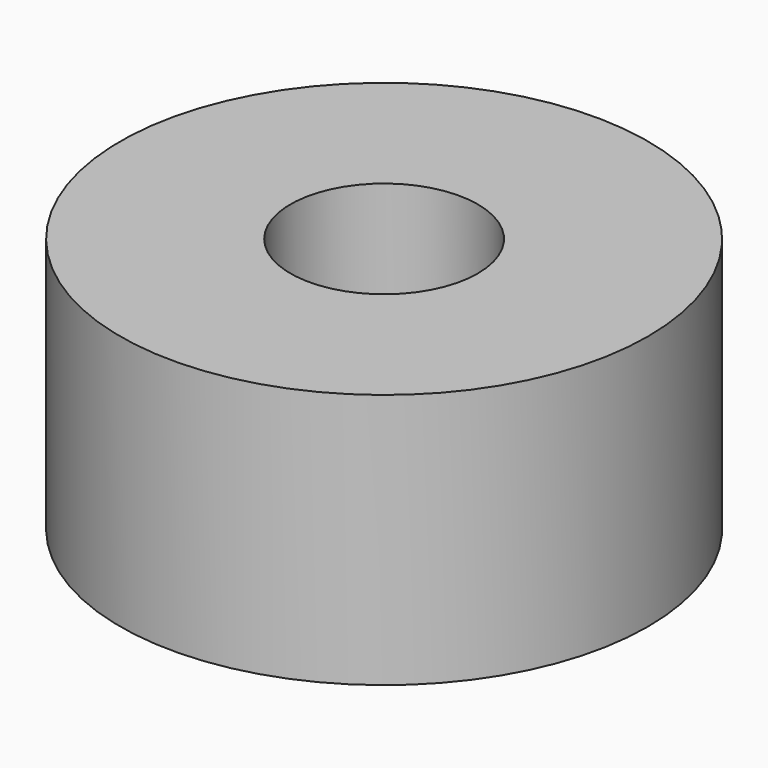
from build123d import *

# Parameters (mm, degrees)
CYLINDER_R     = 15.5
CYLINDER_DEPTH = 15
SKETCH_R       = 5.5
POCKET_DEPTH   = 21


with BuildPart() as part:
    # Cylinder → Cylinder (new body)
    with BuildSketch(Plane.XY):
        Circle(CYLINDER_R)
    extrude(amount=CYLINDER_DEPTH)

    # Sketch → Pocket (cut)
    with BuildSketch(Plane.XY.offset(15)):
        Circle(SKETCH_R)
    extrude(amount=-POCKET_DEPTH, mode=Mode.SUBTRACT)


solid = part.part
